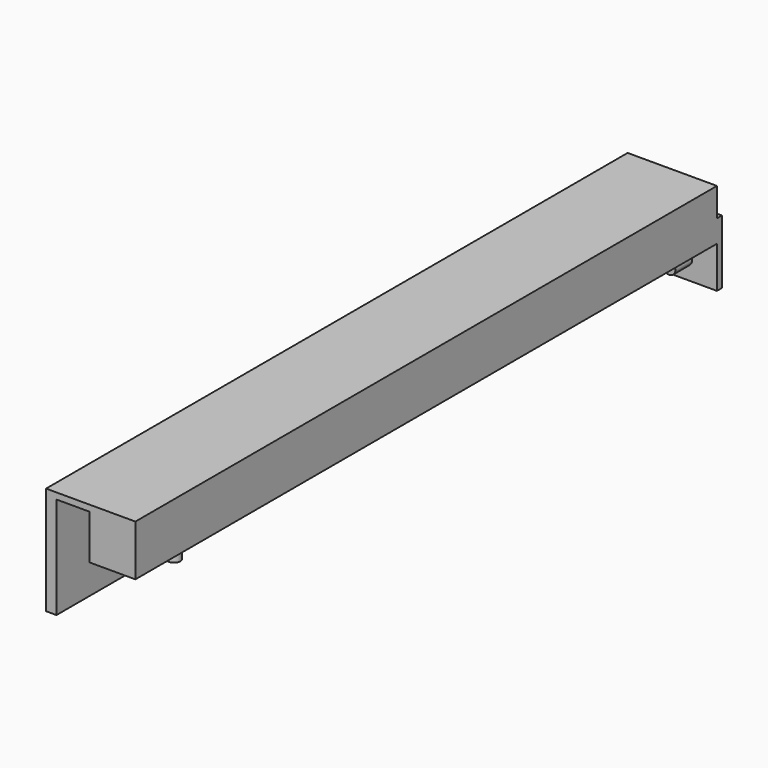
from build123d import *

# Parameters (mm, degrees)
F0_W      = 3
F0_H      = 350
F1_DEPTH  = 52
F2_W      = 350
F2_H      = 3
F3_DEPTH  = 40
F4_W      = 22
F4_H      = 350
F5_DEPTH  = 21.5
F6_R      = 1.5
F7_DEPTH  = 10
F8_W      = 22
F8_H      = 10.75
F9_DEPTH  = 3
F10_DEPTH = 20
F11_R     = 3
F12_DEPTH = 10
F13_R     = 3
F14_DEPTH = 10
F15_DEPTH = 2


with BuildPart() as f1:
    # F0 (on Top) → F1 (new body)
    with BuildSketch(Plane.XY):
        with Locations((-1.5, 0)):
            Rectangle(F0_W, F0_H)
    extrude(amount=F1_DEPTH)

    # F2 (on face) → F3 (join)
    with BuildSketch(Plane.YZ):
        with Locations((0, 50.5)):
            Rectangle(F2_W, F2_H)
    extrude(amount=F3_DEPTH)

    # F4 (on face) → F5 (join)
    with BuildSketch(Plane(origin=(0, 0, 49), x_dir=(1, 0, 0), z_dir=(0, 0, -1))):
        with Locations((29, 0)):
            Rectangle(F4_W, F4_H)
    extrude(amount=F5_DEPTH)

    # F6 (on face) → F7 (join)
    with BuildSketch(Plane(origin=(-3, 0, 0), x_dir=(0, -1, 0), z_dir=(-1, 0, 0))):
        with Locations((138, 18)):
            Circle(F6_R)
        with Locations((48, 18)):
            Circle(F6_R)
    extrude(amount=F7_DEPTH)



with BuildPart() as f9:
    # F8 (on face) → F9 (new body)
    with BuildSketch(Plane(origin=(0, 175, 0), x_dir=(-1, 0, 0), z_dir=(0, 1, 0))):
        with Locations((-29, 32.875)):
            Rectangle(F8_W, F8_H)
    extrude(amount=F9_DEPTH)


with BuildPart() as f1_1:
    add(f1.part)
    # F10 (add): a face of the model
    f10_faces = [f9.part.faces().sort_by_distance(p)[0] for p in [
        (29, 176.5, 27.5),
    ]]

    add(f9.part)  # F10 merges F9
    extrude(f10_faces, amount=F10_DEPTH)

    # F11 (on face) → F12 (join)
    with BuildSketch(Plane.XZ.offset(-175)):
        with Locations((25, 16.5)):
            Circle(F11_R)
    extrude(amount=F12_DEPTH)

    # F13 (on face) → F14 (join)
    with BuildSketch(Plane(origin=(0, 0, 27.5), x_dir=(1, 0, 0), z_dir=(0, 0, -1))):
        with Locations((29, 138)):
            Circle(F13_R)
    extrude(amount=F14_DEPTH)

    # F15 (add): a face of the model
    f15_faces = [f1_1.faces().sort_by_distance(p)[0] for p in [
        (0, 0, 24.5),
    ]]
    extrude(f15_faces, amount=F15_DEPTH)


solid = f1_1.part
